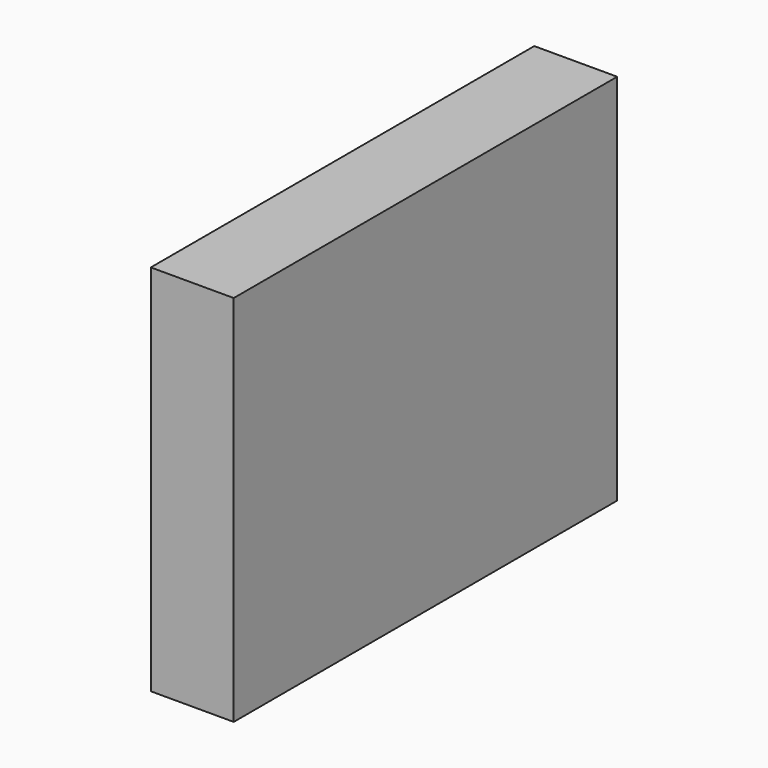
from build123d import *

# Parameters (mm, degrees)
F1_DEPTH = 12.7


with BuildPart() as f1:
    # F0 (on Right) → F1 (new body)
    with BuildSketch(Plane.YZ):
        Polygon((-40.069478, 0), (33.336522, 0), (33.336522, 28.575), (-15.431478, 28.575), (-33.719478, 28.575), (-40.069478, 28.575), align=None)
        Polygon((33.336522, -28.575), (33.336522, 0), (-40.069478, 0), (-40.069478, -28.575), (-33.719478, -28.575), (-15.431478, -28.575), align=None)
    extrude(amount=-F1_DEPTH)


solid = f1.part
